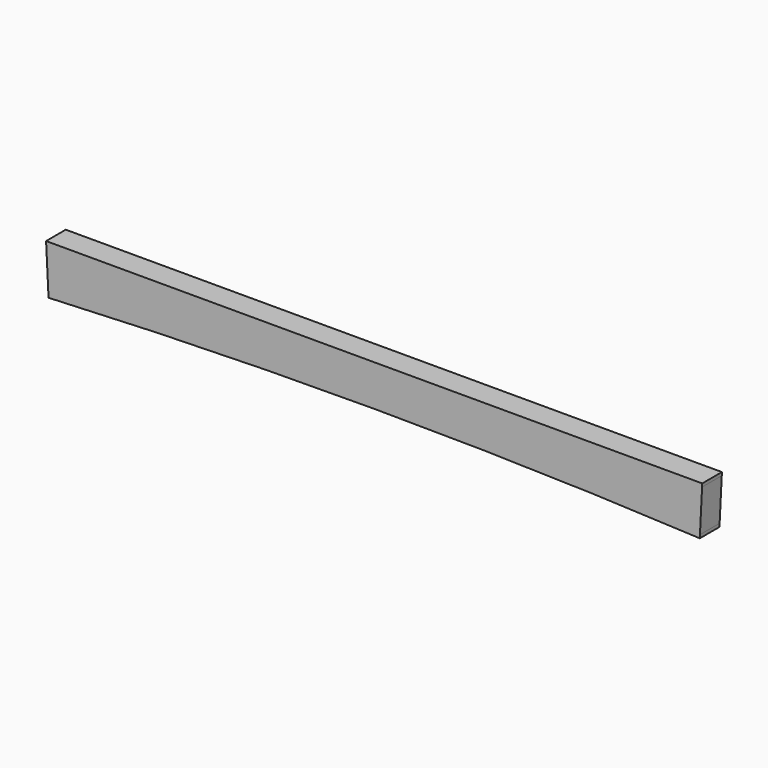
from build123d import *

# Parameters (mm, degrees)
F1_DEPTH = 15


with BuildPart() as f1:
    # F0 (on Front) → F1 (new body)
    with BuildSketch(Plane.XZ):
        Polygon((0, 0), (-200, 0), (-199.9, -2), (0, -2), align=None)
        with BuildLine():
            ThreePointArc((198.6017467256, -27.9650654886), (99.3318613217, -24.2438007207), (-1e-10, -23.0031210998))
            Line((0, -23.0031210998), (0, -25.0031210998))
            ThreePointArc((-1e-10, -25.0031210998), (99.2819081211, -26.2431767928), (198.5018714917, -29.9625701663))
            Line((198.5018714917, -29.9625701663), (198.6017467256, -27.9650654886))
        make_face()
        with BuildLine():
            Line((199.9, -2), (0, -2))
            Line((0, -2), (0, -23.0031210998))
            ThreePointArc((-1e-10, -23.0031210998), (99.3318613217, -24.2438007207), (198.6017467256, -27.9650654886))
            Line((198.6017467256, -27.9650654886), (199.9, -2))
        make_face()
        with BuildLine():
            Line((0, -2), (-199.9, -2))
            Line((-199.9, -2), (-198.6017467256, -27.9650654886))
            ThreePointArc((-198.6017467256, -27.9650654886), (-99.3318613218, -24.2438007207), (-1e-10, -23.0031210998))
            Line((0, -23.0031210998), (0, -2))
        make_face()
        Polygon((200, 0), (0, 0), (0, -2), (199.9, -2), align=None)
        with BuildLine():
            ThreePointArc((-1e-10, -23.0031210998), (-99.3318613218, -24.2438007207), (-198.6017467256, -27.9650654886))
            Line((-198.6017467256, -27.9650654886), (-198.5018714917, -29.9625701663))
            ThreePointArc((-198.5018714917, -29.9625701663), (-99.2819081213, -26.2431767928), (-1e-10, -25.0031210998))
            Line((0, -25.0031210998), (0, -23.0031210998))
        make_face()
    extrude(amount=F1_DEPTH)


solid = f1.part
